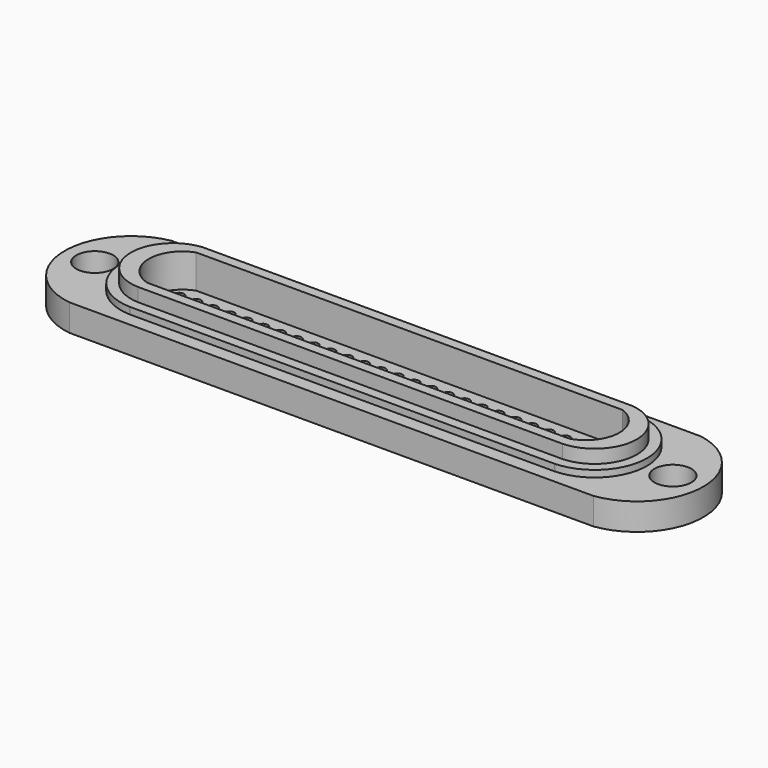
from build123d import *

# Parameters (mm, degrees)
F0_R     = 2.75
F1_DEPTH = 4
F2_DEPTH = 5
F3_DEPTH = 7
F4_DEPTH = 2
F5_R     = 0.75
F5_R_2   = 0.7
F6_DEPTH = 25


with BuildPart() as f1:
    # F0 (on Top) → F1 (new body)
    with BuildSketch(Plane.XY):
        with BuildLine():
            Line((-38.977494, -9.75), (0, -9.75))
            Line((0, -9.75), (38.977494, -9.75))
            ThreePointArc((38.977494, -9.75), (47.498043, -0.167837), (39.370675, 9.75))
            Line((39.370675, 9.75), (0, 9.75))
            Line((0, 9.75), (-39.370675, 9.75))
            ThreePointArc((-39.370675, 9.75), (-47.498043, -0.167837), (-38.977494, -9.75))
        make_face()
        with Locations((-43, 0)):
            Circle(F0_R, mode=Mode.SUBTRACT)
        with BuildLine():
            ThreePointArc((-31.644462, -7.748965), (-39.122501, -0.217996), (-32.104186, 7.743147))
            Line((-32.104186, 7.743147), (-31.961884, 7.75))
            Line((-31.961884, 7.75), (0, 7.75))
            Line((0, 7.75), (31.961884, 7.75))
            Line((31.961884, 7.75), (32.104186, 7.743147))
            ThreePointArc((32.104186, 7.743147), (39.122501, -0.217996), (31.644462, -7.748965))
            Line((31.644462, -7.748965), (31.587565, -7.75))
            Line((31.587565, -7.75), (0.328864, -7.75))
            Line((0.328864, -7.75), (-0.328864, -7.75))
            Line((-0.328864, -7.75), (-31.587565, -7.75))
            Line((-31.587565, -7.75), (-31.644462, -7.748965))
        make_face(mode=Mode.SUBTRACT)
        with Locations((43, 0)):
            Circle(F0_R, mode=Mode.SUBTRACT)
    extrude(amount=F1_DEPTH)

    # F0 (on Top) → F2 (join)
    with BuildSketch(Plane.XY):
        with BuildLine():
            Line((-31.961884, 7.75), (-32.104186, 7.743147))
            ThreePointArc((-32.104186, 7.743147), (-39.122501, -0.217996), (-31.644462, -7.748965))
            Line((-31.644462, -7.748965), (-31.587565, -7.75))
            Line((-31.587565, -7.75), (-0.328864, -7.75))
            Line((-0.328864, -7.75), (0.328864, -7.75))
            Line((0.328864, -7.75), (31.587565, -7.75))
            Line((31.587565, -7.75), (31.644462, -7.748965))
            ThreePointArc((31.644462, -7.748965), (39.122501, -0.217996), (32.104186, 7.743147))
            Line((32.104186, 7.743147), (31.961884, 7.75))
            Line((31.961884, 7.75), (0, 7.75))
            Line((0, 7.75), (-31.961884, 7.75))
        make_face()
        with BuildLine():
            Line((31.587565, -6.25), (-0.328864, -6.25))
            Line((-0.328864, -6.25), (-5.279422, -6.25))
            Line((-5.279422, -6.25), (-31.588749, -6.25))
            ThreePointArc((-31.588749, -6.25), (-37.623142, -0.174144), (-31.960962, 6.25))
            Line((-31.960962, 6.25), (0, 6.25))
            Line((0, 6.25), (31.961884, 6.25))
            ThreePointArc((31.961884, 6.25), (37.62311, -0.175133), (31.587565, -6.25))
        make_face(mode=Mode.SUBTRACT)
    extrude(amount=F2_DEPTH)

    # F0 (on Top) → F3 (join)
    with BuildSketch(Plane.XY):
        with BuildLine():
            Line((-5.279422, -6.25), (-0.328864, -6.25))
            Line((-0.328864, -6.25), (31.587565, -6.25))
            ThreePointArc((31.587565, -6.25), (37.62311, -0.175133), (31.961884, 6.25))
            Line((31.961884, 6.25), (0, 6.25))
            Line((0, 6.25), (-31.960962, 6.25))
            ThreePointArc((-31.960962, 6.25), (-37.623142, -0.174144), (-31.588749, -6.25))
            Line((-31.588749, -6.25), (-5.279422, -6.25))
        make_face()
        with BuildLine():
            Line((31.389172, -4.75), (-0.328864, -4.75))
            Line((-0.328864, -4.75), (-5.279422, -4.75))
            Line((-5.279422, -4.75), (-31.389172, -4.75))
            ThreePointArc((-31.389172, -4.75), (-34.997071, -0.117987), (-31.714512, 4.75))
            Line((-31.714512, 4.75), (0, 4.75))
            Line((0, 4.75), (31.714512, 4.75))
            ThreePointArc((31.714512, 4.75), (34.997071, -0.117987), (31.389172, -4.75))
        make_face(mode=Mode.SUBTRACT)
    extrude(amount=F3_DEPTH)

    # F0 (on Top) → F4 (join)
    with BuildSketch(Plane.XY):
        with BuildLine():
            Line((-5.279422, -4.75), (-0.328864, -4.75))
            Line((-0.328864, -4.75), (31.389172, -4.75))
            ThreePointArc((31.389172, -4.75), (34.997071, -0.117987), (31.714512, 4.75))
            Line((31.714512, 4.75), (0, 4.75))
            Line((0, 4.75), (-31.714512, 4.75))
            ThreePointArc((-31.714512, 4.75), (-34.997071, -0.117987), (-31.389172, -4.75))
            Line((-31.389172, -4.75), (-5.279422, -4.75))
        make_face()
    extrude(amount=F4_DEPTH)

    # F5 (on face) → F6 (cut)
    with BuildSketch(Plane.XY.offset(2)):
        with BuildLine():
            ThreePointArc((0, 0.75), (-0.75, 0), (0, -0.75))
            ThreePointArc((0, -0.75), (0.75, 0), (0, 0.75))
        make_face()
        with BuildLine():
            ThreePointArc((0, 3.25), (-0.75, 2.5), (0, 1.75))
            ThreePointArc((0, 1.75), (0.75, 2.5), (0, 3.25))
        make_face()
        with Locations((2.5, 0)):
            Circle(F5_R)
        with Locations((2.5, 2.5)):
            Circle(F5_R)
        with Locations((5, 0)):
            Circle(F5_R)
        with Locations((5, 2.5)):
            Circle(F5_R)
        with Locations((7.5, 0)):
            Circle(F5_R)
        with Locations((7.5, 2.5)):
            Circle(F5_R)
        with Locations((10, 0)):
            Circle(F5_R)
        with Locations((10, 2.5)):
            Circle(F5_R)
        with Locations((12.5, 0)):
            Circle(F5_R)
        with Locations((12.5, 2.5)):
            Circle(F5_R)
        with Locations((15, 0)):
            Circle(F5_R)
        with Locations((15, 2.5)):
            Circle(F5_R)
        with Locations((17.5, 0)):
            Circle(F5_R)
        with Locations((17.5, 2.5)):
            Circle(F5_R)
        with Locations((20, 0)):
            Circle(F5_R)
        with Locations((20, 2.5)):
            Circle(F5_R)
        with Locations((22.5, 0)):
            Circle(F5_R)
        with Locations((22.5, 2.5)):
            Circle(F5_R)
        with Locations((25, 0)):
            Circle(F5_R)
        with Locations((25, 2.5)):
            Circle(F5_R)
        with Locations((27.5, 0)):
            Circle(F5_R)
        with Locations((27.5, 2.5)):
            Circle(F5_R)
        with Locations((2.5, -2.5)):
            Circle(F5_R)
        with Locations((5, -2.5)):
            Circle(F5_R)
        with Locations((7.5, -2.5)):
            Circle(F5_R)
        with Locations((10, -2.5)):
            Circle(F5_R)
        with Locations((12.5, -2.5)):
            Circle(F5_R)
        with Locations((15, -2.5)):
            Circle(F5_R)
        with Locations((17.5, -2.5)):
            Circle(F5_R)
        with Locations((20, -2.5)):
            Circle(F5_R)
        with Locations((22.5, -2.5)):
            Circle(F5_R)
        with Locations((25, -2.5)):
            Circle(F5_R)
        with Locations((27.5, -2.5)):
            Circle(F5_R)
        with Locations((-12.5, 0)):
            Circle(F5_R)
        with Locations((-17.5, 0)):
            Circle(F5_R)
        with Locations((-7.5, 0)):
            Circle(F5_R)
        with Locations((-5, 0)):
            Circle(F5_R)
        with Locations((-15, 0)):
            Circle(F5_R)
        with Locations((-20, 0)):
            Circle(F5_R)
        with Locations((-10, 0)):
            Circle(F5_R)
        with Locations((-12.5, 2.5)):
            Circle(F5_R)
        with Locations((-10, 2.5)):
            Circle(F5_R)
        with Locations((-7.5, 2.5)):
            Circle(F5_R)
        with Locations((-5, 2.5)):
            Circle(F5_R)
        with Locations((-2.5, 0)):
            Circle(F5_R)
        with Locations((-2.5, 2.5)):
            Circle(F5_R)
        with Locations((-17.5, 2.5)):
            Circle(F5_R)
        with Locations((-15, 2.5)):
            Circle(F5_R)
        with Locations((-20, 2.5)):
            Circle(F5_R)
        with Locations((-27.5, 0)):
            Circle(F5_R)
        with Locations((-22.5, 0)):
            Circle(F5_R)
        with Locations((-25, 0)):
            Circle(F5_R)
        with Locations((-27.5, -2.5)):
            Circle(F5_R)
        with Locations((-25, 2.5)):
            Circle(F5_R)
        with Locations((-22.5, 2.5)):
            Circle(F5_R)
        with Locations((-17.5, -2.5)):
            Circle(F5_R)
        with Locations((-27.5, 2.5)):
            Circle(F5_R)
        with Locations((-20, -2.5)):
            Circle(F5_R)
        with Locations((-22.5, -2.5)):
            Circle(F5_R)
        with Locations((-25, -2.5)):
            Circle(F5_R)
        with Locations((-2.5, -2.5)):
            Circle(F5_R)
        with Locations((-5, -2.5)):
            Circle(F5_R)
        with Locations((-7.5, -2.5)):
            Circle(F5_R)
        with Locations((-10, -2.5)):
            Circle(F5_R)
        with Locations((-12.5, -2.5)):
            Circle(F5_R)
        with Locations((-15, -2.5)):
            Circle(F5_R)
        with Locations((0.020794, -2.485011)):
            Circle(F5_R_2)
        with Locations((-29.956931, 0.036661)):
            Circle(F5_R)
        with Locations((29.956931, 0.036661)):
            Circle(F5_R)
        with Locations((29.949998, 2.5)):
            Circle(F5_R)
        with Locations((32.449998, 2.5)):
            Circle(F5_R)
        with Locations((29.949998, -2.5)):
            Circle(F5_R)
        with Locations((32.449998, 0)):
            Circle(F5_R)
        with Locations((32.449998, -2.5)):
            Circle(F5_R)
        with Locations((-32.466013, 0.00955)):
            Circle(F5_R)
        with Locations((-32.466013, -2.49045)):
            Circle(F5_R)
        with Locations((-29.966013, 2.50955)):
            Circle(F5_R)
        with Locations((-32.466013, 2.50955)):
            Circle(F5_R)
        with Locations((-29.966013, -2.49045)):
            Circle(F5_R)
    extrude(amount=-F6_DEPTH, mode=Mode.SUBTRACT)


solid = f1.part
